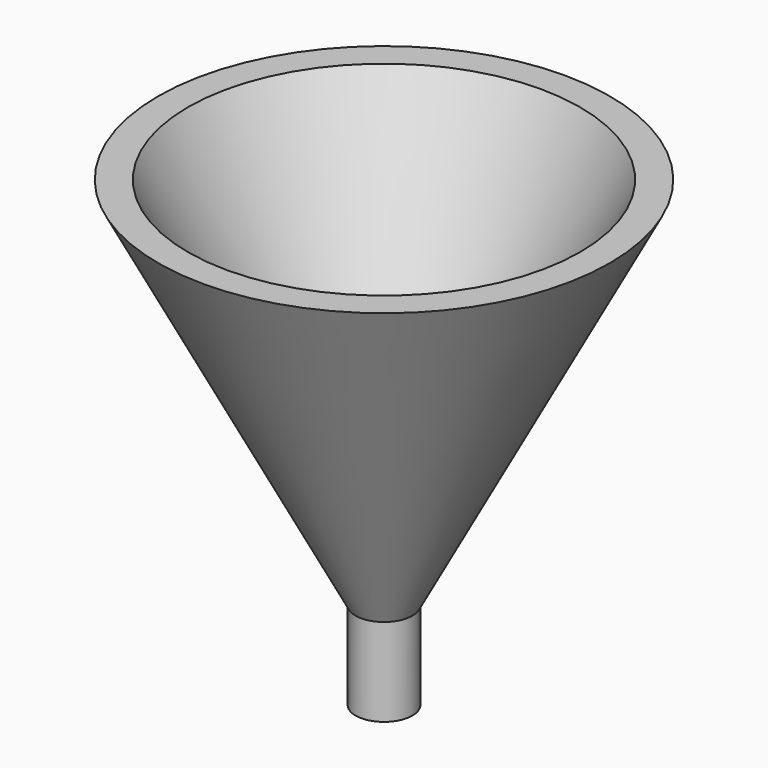
from build123d import *

# Parameters (mm, degrees)
F2_R     = 3.600784
F3_DEPTH = 25.4


with BuildPart() as f1:
    # F0 (on Front) → F1 (revolve)
    with BuildSketch(Plane.XZ):
        Polygon((33.784248, 56.037344), (29.333627, 56.037344), (0, 0), (0, -13.149558), (4.248318, -13.149558), (4.248318, 0), align=None)
    revolve(axis=Axis((0, 0, -6.574779), (0, 0, 1)))

    # F2 (on face) → F3 (cut)
    with BuildSketch(Plane(origin=(0, 0, -13.149558), x_dir=(1, 0, 0), z_dir=(0, 0, -1))):
        Circle(F2_R)
    extrude(amount=-F3_DEPTH, mode=Mode.SUBTRACT)


solid = f1.part
